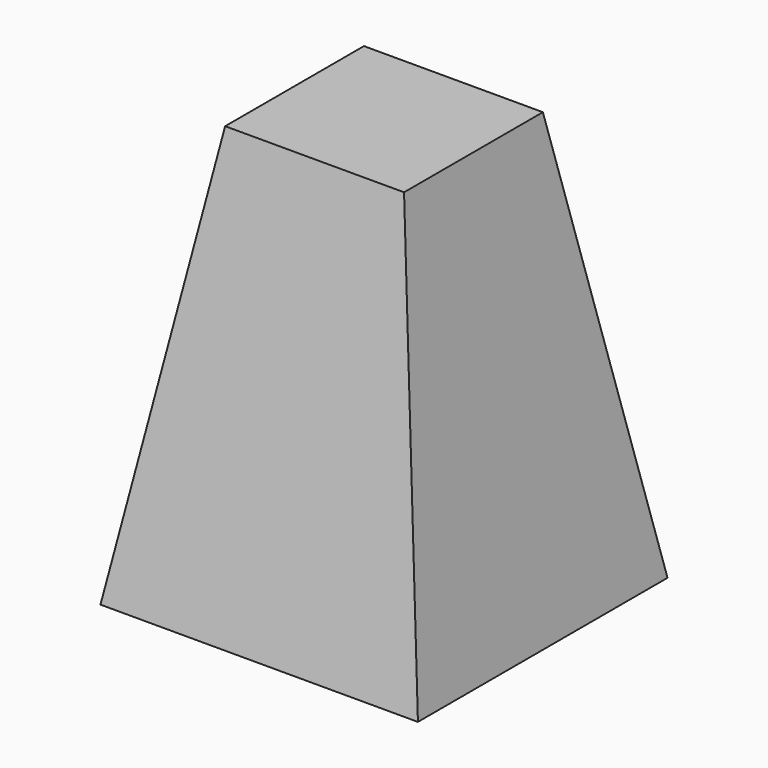
from build123d import *

# Parameters (mm, degrees)
F4_W      = 91.664766
F4_H      = 90.098318
F0_W      = 71.664766
F0_H      = 70.098318
F5_FACE_W = 91.664766
F5_FACE_H = 90.098318
F3_W      = 51.664766
F3_H      = 50.098318


with BuildPart() as f5:
    # F4 (on offset) → F5 section 0
    with BuildSketch(Plane.XY.offset(-60)):
        Rectangle(F4_W, F4_H)
    # F0 (on Top) → F5 section 1
    with BuildSketch(Plane.XY):
        Rectangle(F0_W, F0_H)
    loft()

    # F5_face (on face) → F6 section 0
    with BuildSketch(Plane(origin=(0, 0, -60), x_dir=(1, 0, 0), z_dir=(0, 0, -1))):
        Rectangle(F5_FACE_W, F5_FACE_H)
    # F3 (on offset) → F6 section 1
    with BuildSketch(Plane.XY.offset(60)):
        Rectangle(F3_W, F3_H)
    loft()


solid = f5.part
